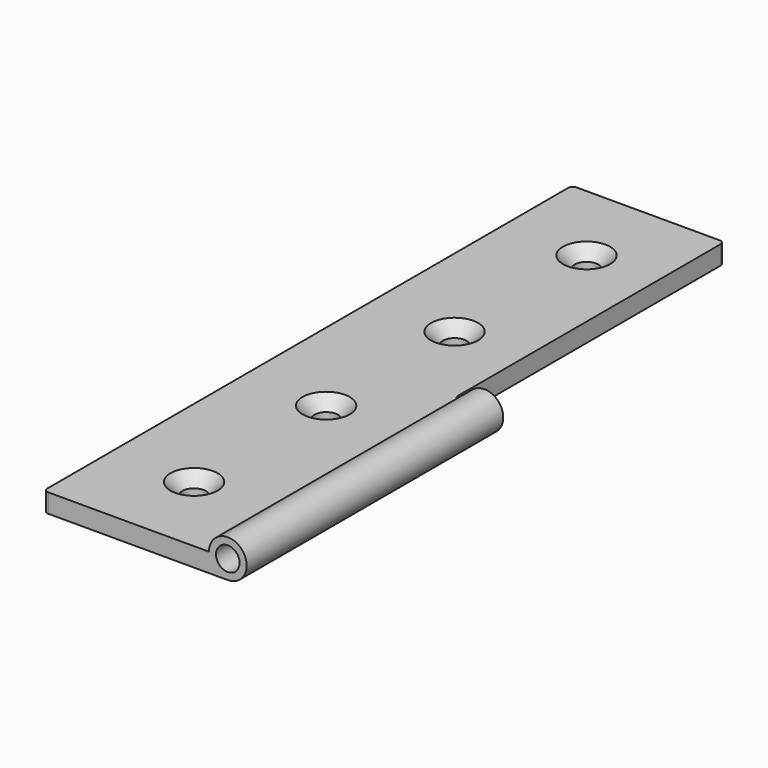
from build123d import *

# Parameters (mm, degrees)
F0_W           = 35
F0_H           = 140
F1_DEPTH       = 4
F2_R           = 2.5
F3_DEPTH       = 68
F6_D           = 5
F6_CSINK_D     = 10
F6_CSINK_ANGLE = 90
F8_DEPTH       = 4.001
F9_R           = 1


with BuildPart() as f1:
    # F0 (on Top) → F1 (new body)
    with BuildSketch(Plane.XY):
        Rectangle(F0_W, F0_H)
    extrude(amount=F1_DEPTH)


with BuildPart() as f3:
    # F2 (on face) → F3 (new body)
    with BuildSketch(Plane.XZ.offset(70)):
        with BuildLine():
            Line((17.5, 4), (17.5, 0))
            Line((17.5, 0), (21.546269994, 0))
            ThreePointArc((21.546269994, 0), (24.3746971188, 6.8284271247), (17.546269994, 4))
            Line((17.546269994, 4), (17.5, 4))
        make_face()
        with Locations((21.546269994, 4)):
            Circle(F2_R, mode=Mode.SUBTRACT)
    extrude(amount=-F3_DEPTH)

    # F4: union F1
    add(f1.part)

    # F6 (through all)
    with Locations(Plane.XY.offset(4)):
        with Locations((0, -52), (0, -17), (0.0200391446, 17), (0, 52)):
            CounterSinkHole(F6_D / 2, F6_CSINK_D / 2, counter_sink_angle=F6_CSINK_ANGLE)

    # F7 (on face) → F8 (cut, through all)
    with BuildSketch(Plane.XY.offset(4)):
        with BuildLine():
            Line((17.5, 70), (14.8238670081, 70))
            Line((14.8238670081, 70), (14.8238670081, -0.5))
            ThreePointArc((14.8238670081, -0.5), (15.2632068363, -1.5606601718), (16.3238670081, -2))
            Line((16.3238670081, -2), (17.5, -2))
            Line((17.5, -2), (17.5, 70))
        make_face()
    extrude(amount=-F8_DEPTH, mode=Mode.SUBTRACT)

    # F9
    f9_edges = [f3.edges().sort_by_distance(p)[0] for p in [
        (-17.5, -70, 2),
        (-17.5, 70, 2),
        (14.823867, 70, 2),
    ]]
    fillet(f9_edges, radius=F9_R)


solid = f3.part
